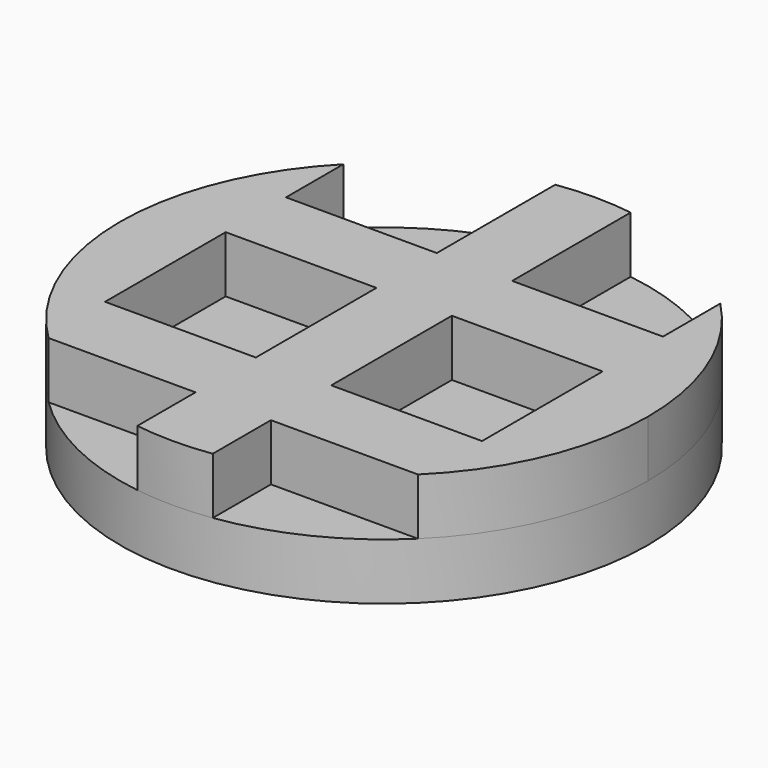
from build123d import *

# Parameters (mm, degrees)
F0_R     = 14
F1_DEPTH = 3
F2_W     = 8
F2_H     = 8
F3_DEPTH = 3
F4_SCALE = 0.7143


with BuildPart() as f1:
    # F0 (on Top) → F1 (new body)
    with BuildSketch(Plane.XY):
        Circle(F0_R)
    extrude(amount=F1_DEPTH)

    # F2 (on face) → F3 (join)
    with BuildSketch(Plane.XY.offset(3)):
        with BuildLine():
            Line((-10, 6), (-10, 9.7979589711))
            ThreePointArc((-10, 9.7979589711), (-12.9614813968, 5.2915026221), (-14, 0))
            ThreePointArc((-14, 0), (-12.9068087767, -5.4234940031), (-9.7979589711, -10))
            Line((-9.7979589711, -10), (-2, -10))
            Line((-2, -10), (-2, -13.8564064606))
            ThreePointArc((-2, -13.8564064606), (0, -14), (2, -13.8564064606))
            Line((2, -13.8564064606), (2, -10))
            Line((2, -10), (9.7979589711, -10))
            ThreePointArc((9.7979589711, -10), (12.9068087767, -5.4234940031), (14, 0))
            ThreePointArc((14, 0), (12.9614813968, 5.2915026221), (10, 9.7979589711))
            Line((10, 9.7979589711), (10, 6))
            Line((10, 6), (2, 6))
            Line((2, 6), (2, 13.8564064606))
            ThreePointArc((2, 13.8564064606), (0, 14), (-2, 13.8564064606))
            Line((-2, 13.8564064606), (-2, 6))
            Line((-2, 6), (-10, 6))
        make_face()
        with Locations((-6, -2)):
            Rectangle(F2_W, F2_H, mode=Mode.SUBTRACT)
        with Locations((6, -2)):
            Rectangle(F2_W, F2_H, mode=Mode.SUBTRACT)
    extrude(amount=F3_DEPTH)


with BuildPart() as f1_1:
    # F4: moved
    add(f1.part.scale(F4_SCALE))


solid = f1_1.part
